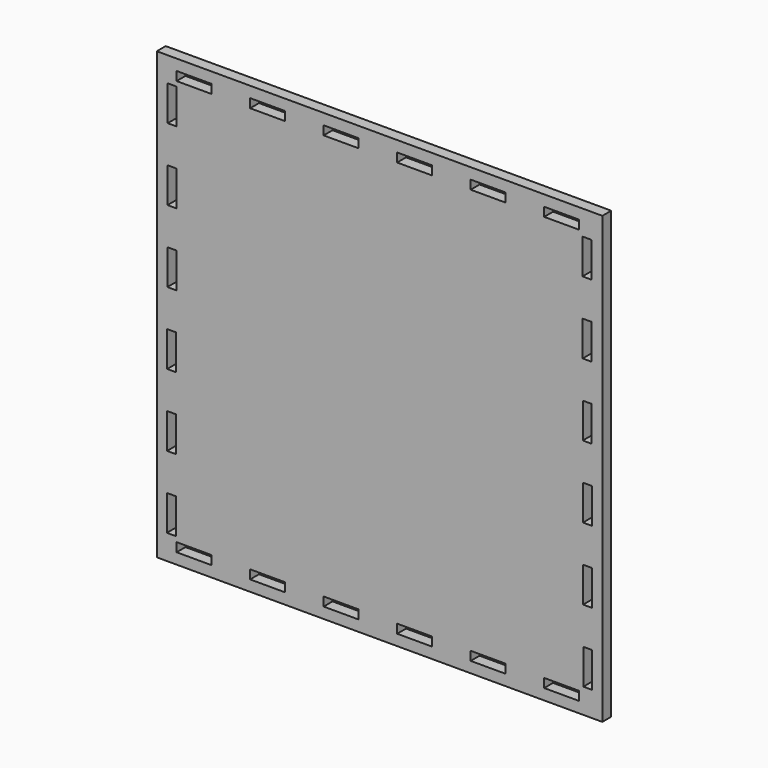
from build123d import *

# Parameters (mm, degrees)
F0_W     = 200
F0_H     = 200
F1_DEPTH = 5
F2_W     = 15.64841
F2_H     = 4
F2_W_2   = 4
F2_H_2   = 15.764192
F3_DEPTH = 25


with BuildPart() as f1:
    # F0 (on Front) → F1 (new body)
    with BuildSketch(Plane.XZ):
        Rectangle(F0_W, F0_H)
    extrude(amount=F1_DEPTH)

    # F2 (on face) → F3 (cut)
    with BuildSketch(Plane.XZ.offset(5)):
        with Locations((-83.275795, 93.1)):
            Rectangle(F2_W, F2_H)
        with Locations((-50.275795, 93.1)):
            Rectangle(F2_W, F2_H)
        with Locations((-17.275795, 93.1)):
            Rectangle(F2_W, F2_H)
        with Locations((15.724205, 93.1)):
            Rectangle(F2_W, F2_H)
        with Locations((48.724205, 93.1)):
            Rectangle(F2_W, F2_H)
        with Locations((81.724205, 93.1)):
            Rectangle(F2_W, F2_H)
        with Locations((-83.275795, -93.1)):
            Rectangle(F2_W, F2_H)
        with Locations((-50.275795, -93.1)):
            Rectangle(F2_W, F2_H)
        with Locations((-17.275795, -93.1)):
            Rectangle(F2_W, F2_H)
        with Locations((15.724205, -93.1)):
            Rectangle(F2_W, F2_H)
        with Locations((48.724205, -93.1)):
            Rectangle(F2_W, F2_H)
        with Locations((81.724205, -93.1)):
            Rectangle(F2_W, F2_H)
        with Locations((93.1, 81.039183)):
            Rectangle(F2_W_2, F2_H_2)
        with Locations((93.173537, 48.639266)):
            Rectangle(F2_W_2, F2_H_2)
        with Locations((93.247075, 16.23935)):
            Rectangle(F2_W_2, F2_H_2)
        with Locations((93.320613, -16.160567)):
            Rectangle(F2_W_2, F2_H_2)
        with Locations((93.39415, -48.560483)):
            Rectangle(F2_W_2, F2_H_2)
        with Locations((93.467688, -80.9604)):
            Rectangle(F2_W_2, F2_H_2)
        with Locations((-93.1, 81.039183)):
            Rectangle(F2_W_2, F2_H_2)
        with Locations((-93.173537, 48.639266)):
            Rectangle(F2_W_2, F2_H_2)
        with Locations((-93.247075, 16.23935)):
            Rectangle(F2_W_2, F2_H_2)
        with Locations((-93.320613, -16.160567)):
            Rectangle(F2_W_2, F2_H_2)
        with Locations((-93.39415, -48.560483)):
            Rectangle(F2_W_2, F2_H_2)
        with Locations((-93.467688, -80.9604)):
            Rectangle(F2_W_2, F2_H_2)
    extrude(amount=-F3_DEPTH, mode=Mode.SUBTRACT)


solid = f1.part
